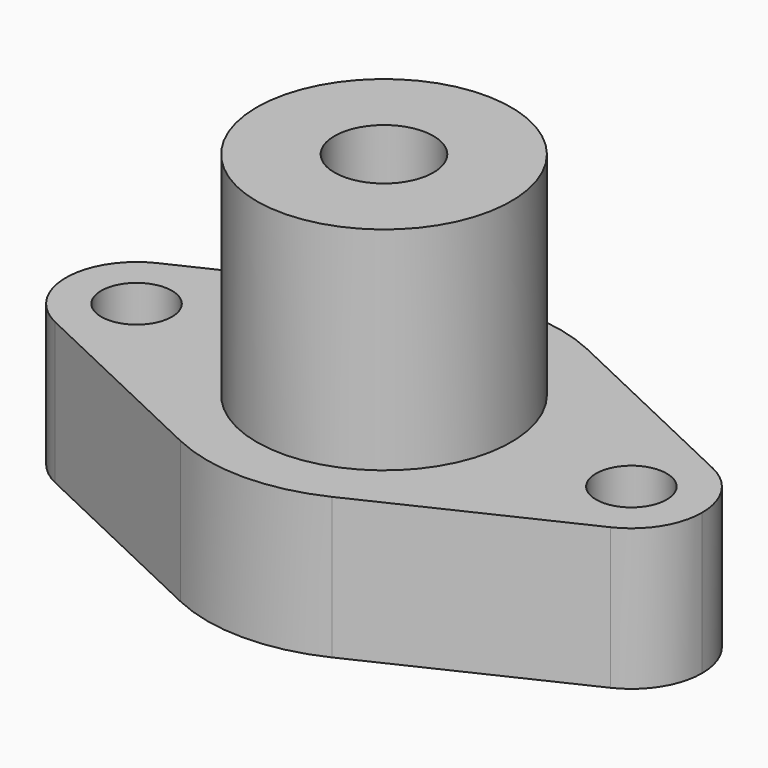
from build123d import *

# Parameters (mm, degrees)
F1_DEPTH = 20
F2_DEPTH = 30
F3_D     = 10
F5_D     = 14
F5_DEPTH = 31
F5_TIP   = 4.2060243332


with BuildPart() as f1:
    # F0 (on Top) → F1 (new body)
    with BuildSketch(Plane.XY):
        with BuildLine():
            Line((-39.2857142857, -9.0350790291), (-10.7142857143, -22.5876975726))
            ThreePointArc((-10.7142857143, -22.5876975726), (-21.1288563682, -13.3630620956), (-25, 0))
            ThreePointArc((-25, 0), (-29.6547751618, -8.4515425473), (-39.2857142857, -9.0350790291))
        make_face()
        with BuildLine():
            ThreePointArc((-39.2857142857, -9.0350790291), (-29.6547751618, -8.4515425473), (-25, 0))
            ThreePointArc((-25, 0), (-29.6547751618, 8.4515425473), (-39.2857142857, 9.0350790291))
            ThreePointArc((-39.2857142857, 9.0350790291), (-45, 0), (-39.2857142857, -9.0350790291))
        make_face()
        with BuildLine():
            Line((0, 0), (18, 0))
            ThreePointArc((18, 0), (0, 18), (-18, 0))
            Line((-18, 0), (0, 0))
        make_face()
        with BuildLine():
            ThreePointArc((-18, 0), (0, -18), (18, 0))
            Line((18, 0), (0, 0))
            Line((0, 0), (-18, 0))
        make_face()
        with BuildLine():
            ThreePointArc((10.7142857143, -22.5876975726), (21.1288563682, -13.3630620956), (25, 0))
            Line((25, 0), (18, 0))
            ThreePointArc((18, 0), (0, -18), (-18, 0))
            Line((-18, 0), (-25, 0))
            ThreePointArc((-25, 0), (-21.1288563682, -13.3630620956), (-10.7142857143, -22.5876975726))
            ThreePointArc((-10.7142857143, -22.5876975726), (0, -25), (10.7142857143, -22.5876975726))
        make_face()
        with BuildLine():
            ThreePointArc((-39.2857142857, -9.0350790291), (-29.6547751618, -8.4515425473), (-25, 0))
            ThreePointArc((-25, 0), (-29.6547751618, 8.4515425473), (-39.2857142857, 9.0350790291))
            ThreePointArc((-39.2857142857, 9.0350790291), (-45, 0), (-39.2857142857, -9.0350790291))
        make_face()
        with BuildLine():
            ThreePointArc((39.2857142857, -9.0350790291), (29.6547751618, -8.4515425473), (25, 0))
            ThreePointArc((25, 0), (21.1288563682, -13.3630620956), (10.7142857143, -22.5876975726))
            Line((10.7142857143, -22.5876975726), (39.2857142857, -9.0350790291))
        make_face()
        with BuildLine():
            ThreePointArc((39.2857142857, 9.0350790291), (29.6547751618, 8.4515425473), (25, 0))
            ThreePointArc((25, 0), (29.6547751618, -8.4515425473), (39.2857142857, -9.0350790291))
            ThreePointArc((39.2857142857, -9.0350790291), (43.4515425473, -5.3452248382), (45, 0))
            ThreePointArc((45, 0), (43.4515425473, 5.3452248382), (39.2857142857, 9.0350790291))
        make_face()
        with BuildLine():
            ThreePointArc((-39.2857142857, -9.0350790291), (-29.6547751618, -8.4515425473), (-25, 0))
            ThreePointArc((-25, 0), (-29.6547751618, 8.4515425473), (-39.2857142857, 9.0350790291))
            ThreePointArc((-39.2857142857, 9.0350790291), (-45, 0), (-39.2857142857, -9.0350790291))
        make_face()
        with BuildLine():
            ThreePointArc((10.7142857143, 22.5876975726), (21.1288563682, 13.3630620956), (25, 0))
            ThreePointArc((25, 0), (29.6547751618, 8.4515425473), (39.2857142857, 9.0350790291))
            Line((39.2857142857, 9.0350790291), (10.7142857143, 22.5876975726))
        make_face()
        with BuildLine():
            ThreePointArc((-25, 0), (-21.1288563682, 13.3630620956), (-10.7142857143, 22.5876975726))
            Line((-10.7142857143, 22.5876975726), (-39.2857142857, 9.0350790291))
            ThreePointArc((-39.2857142857, 9.0350790291), (-29.6547751618, 8.4515425473), (-25, 0))
        make_face()
        with BuildLine():
            ThreePointArc((39.2857142857, 9.0350790291), (29.6547751618, 8.4515425473), (25, 0))
            ThreePointArc((25, 0), (29.6547751618, -8.4515425473), (39.2857142857, -9.0350790291))
            ThreePointArc((39.2857142857, -9.0350790291), (43.4515425473, -5.3452248382), (45, 0))
            ThreePointArc((45, 0), (43.4515425473, 5.3452248382), (39.2857142857, 9.0350790291))
        make_face()
        with BuildLine():
            ThreePointArc((39.2857142857, 9.0350790291), (29.6547751618, 8.4515425473), (25, 0))
            ThreePointArc((25, 0), (29.6547751618, -8.4515425473), (39.2857142857, -9.0350790291))
            ThreePointArc((39.2857142857, -9.0350790291), (43.4515425473, -5.3452248382), (45, 0))
            ThreePointArc((45, 0), (43.4515425473, 5.3452248382), (39.2857142857, 9.0350790291))
        make_face()
        with BuildLine():
            Line((18, 0), (25, 0))
            ThreePointArc((25, 0), (21.1288563682, 13.3630620956), (10.7142857143, 22.5876975726))
            ThreePointArc((10.7142857143, 22.5876975726), (0, 25), (-10.7142857143, 22.5876975726))
            ThreePointArc((-10.7142857143, 22.5876975726), (-21.1288563682, 13.3630620956), (-25, 0))
            Line((-25, 0), (-18, 0))
            ThreePointArc((-18, 0), (0, 18), (18, 0))
        make_face()
    extrude(amount=-F1_DEPTH)

    # F0 (on Top) → F2 (join)
    with BuildSketch(Plane.XY):
        with BuildLine():
            Line((0, 0), (18, 0))
            ThreePointArc((18, 0), (0, 18), (-18, 0))
            Line((-18, 0), (0, 0))
        make_face()
        with BuildLine():
            ThreePointArc((-18, 0), (0, -18), (18, 0))
            Line((18, 0), (0, 0))
            Line((0, 0), (-18, 0))
        make_face()
    extrude(amount=F2_DEPTH)

    # F3 (through all)
    with Locations(Plane.XY):
        with Locations((-35, 0), (35, 0)):
            Hole(F3_D / 2)

    # F5
    with Locations(Plane.XY.offset(30)):
        with Locations((0, 0)):
            Hole(F5_D / 2, depth=F5_DEPTH)
            with Locations((0, 0, -(F5_DEPTH + F5_TIP / 2))):  # 118° drill point
                Cone(0, F5_D / 2, F5_TIP, mode=Mode.SUBTRACT)


solid = f1.part
